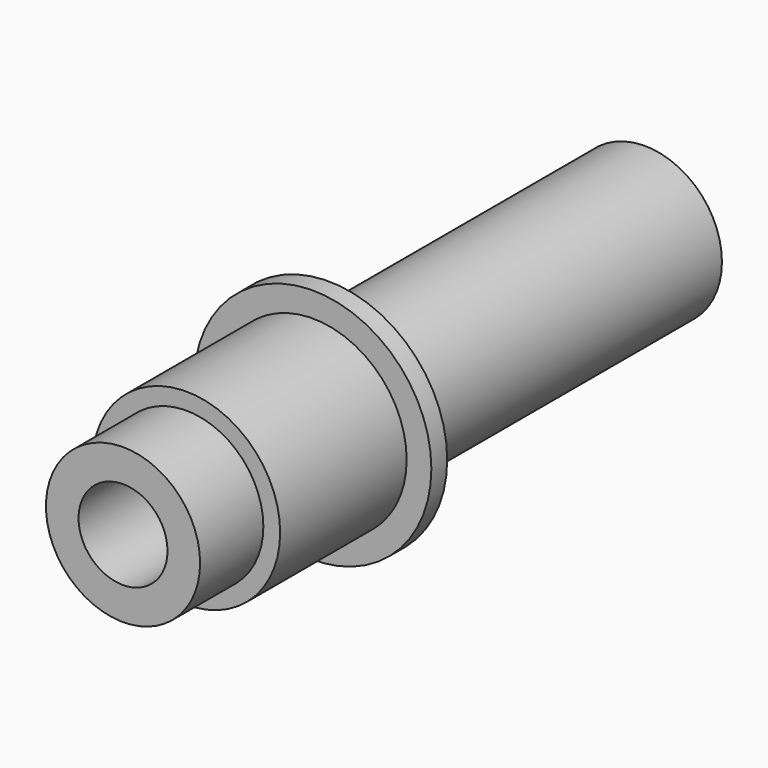
from build123d import *

# Parameters (mm, degrees)
F0_R     = 3.9
F0_R_2   = 2.25
F1_DEPTH = 13
F0_R_3   = 4.75
F3_DEPTH = 9
F0_R_4   = 6
F4_DEPTH = 1
F5_DEPTH = 20
F6_DEPTH = 7


with BuildPart() as f1:
    # F0 (on Front) → F1 (new body)
    with BuildSketch(Plane.XZ):
        Circle(F0_R)
        Circle(F0_R_2, mode=Mode.SUBTRACT)
    extrude(amount=F1_DEPTH)

    # F0 (on Front) → F3 (join)
    with BuildSketch(Plane.XZ):
        Circle(F0_R_3)
        Circle(F0_R, mode=Mode.SUBTRACT)
    extrude(amount=F3_DEPTH)

    # F0 (on Front) → F4 (join)
    with BuildSketch(Plane.XZ):
        Circle(F0_R_4)
        Circle(F0_R_3, mode=Mode.SUBTRACT)
    extrude(amount=F4_DEPTH)

    # F0 (on Front) → F5 (join)
    with BuildSketch(Plane.XZ):
        Circle(F0_R)
        Circle(F0_R_2, mode=Mode.SUBTRACT)
        Circle(F0_R_2)
    extrude(amount=-F5_DEPTH)

    # F0 (on Front) → F6 (cut)
    with BuildSketch(Plane.XZ):
        Circle(F0_R_2)
    extrude(amount=-F6_DEPTH, mode=Mode.SUBTRACT)


solid = f1.part
